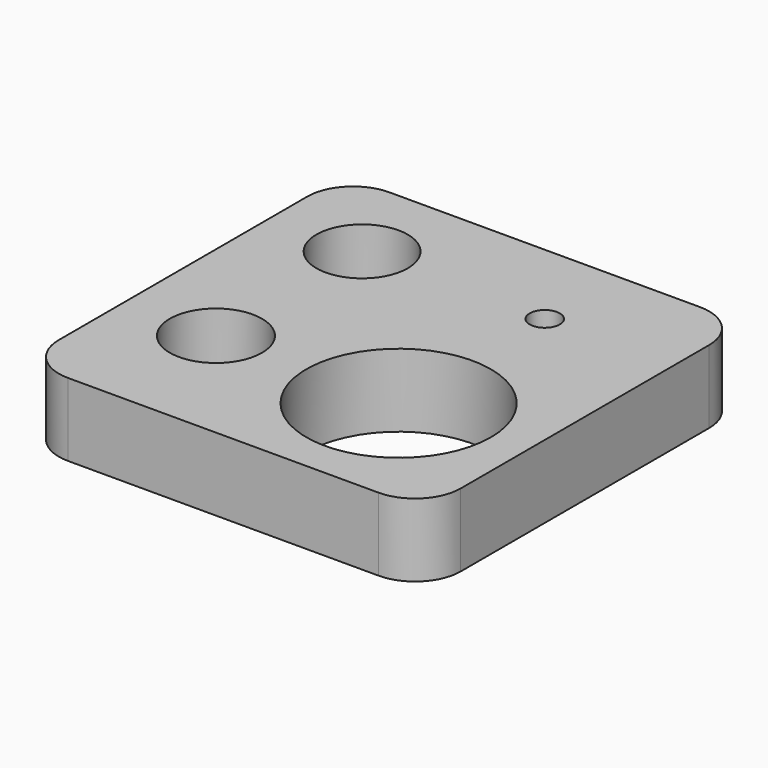
from build123d import *

# Parameters (mm, degrees)
F0_R     = 6.4135
F0_R_2   = 12.827
F0_R_3   = 6.35
F0_R_4   = 2.0955
F1_DEPTH = 10.16


with BuildPart() as f1:
    # F0 (on Top) → F1 (new body)
    with BuildSketch(Plane.XY):
        with BuildLine():
            Line((36.83, 38.1), (-6.35, 38.1))
            ThreePointArc((-6.35, 38.1), (-10.840128, 36.240128), (-12.7, 31.75))
            Line((-12.7, 31.75), (-12.7, -11.43))
            ThreePointArc((-12.7, -11.43), (-10.840128, -15.920128), (-6.35, -17.78))
            Line((-6.35, -17.78), (36.83, -17.78))
            ThreePointArc((36.83, -17.78), (41.320128, -15.920128), (43.18, -11.43))
            Line((43.18, -11.43), (43.18, 31.75))
            ThreePointArc((43.18, 31.75), (41.320128, 36.240128), (36.83, 38.1))
        make_face()
        Circle(F0_R, mode=Mode.SUBTRACT)
        with Locations((25.4, 0)):
            Circle(F0_R_2, mode=Mode.SUBTRACT)
        with Locations((0, 25.4)):
            Circle(F0_R_3, mode=Mode.SUBTRACT)
        with Locations((25.4, 25.4)):
            Circle(F0_R_4, mode=Mode.SUBTRACT)
    extrude(amount=F1_DEPTH)


solid = f1.part
